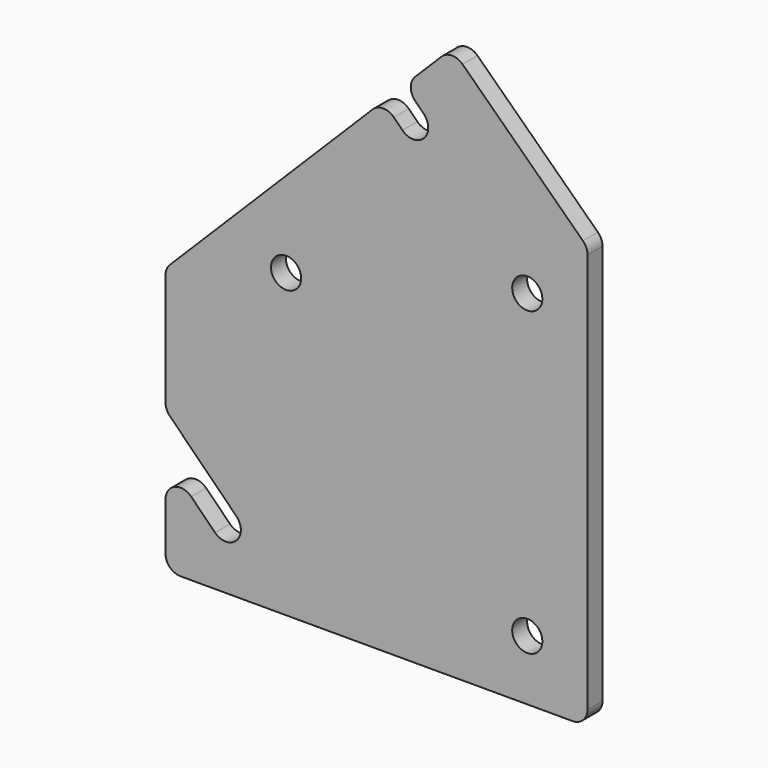
from build123d import *

# Parameters (mm, degrees)
F0_R     = 2.5
F1_DEPTH = 3.1
F2_R     = 2.5


with BuildPart() as f1:
    # F0 (on Front) → F1 (new body)
    with BuildSketch(Plane.XZ):
        with BuildLine():
            Line((-70, 0), (0, 0))
            Line((0, 0), (0, 69.94))
            Line((0, 69.94), (-22.5, 91.67))
            Line((-22.5, 91.67), (-30.357233, 83.812767))
            Line((-30.357233, 83.812767), (-27.152233, 80.607767))
            ThreePointArc((-27.152233, 80.607767), (-27.152233, 77.072233), (-30.687767, 77.072233))
            Line((-30.687767, 77.072233), (-33.892767, 80.277233))
            Line((-33.892767, 80.277233), (-70, 44.17))
            Line((-70, 44.17), (-70, 23.535534))
            Line((-70, 23.535534), (-58.232233, 11.767767))
            ThreePointArc((-58.232233, 11.767767), (-58.232233, 8.232233), (-61.767767, 8.232233))
            Line((-61.767767, 8.232233), (-70, 16.464466))
            Line((-70, 16.464466), (-70, 0))
        make_face()
        with Locations((-10, 10)):
            Circle(F0_R, mode=Mode.SUBTRACT)
        with Locations((-50, 50)):
            Circle(F0_R, mode=Mode.SUBTRACT)
        with Locations((-10, 60)):
            Circle(F0_R, mode=Mode.SUBTRACT)
    extrude(amount=F1_DEPTH)

    # F2
    f2_edges = [f1.edges().sort_by_distance(p)[0] for p in [
        (-30.357233, -1.55, 83.812767),
        (-33.892767, -1.55, 80.277233),
        (-70, -1.55, 23.535534),
        (-70, -1.55, 16.464466),
        (-70, -1.55, 0),
        (-22.5, -1.55, 91.67),
        (0, -1.55, 0),
        (0, -1.55, 69.94),
        (-70, -1.55, 44.17),
    ]]
    fillet(f2_edges, radius=F2_R)


solid = f1.part
